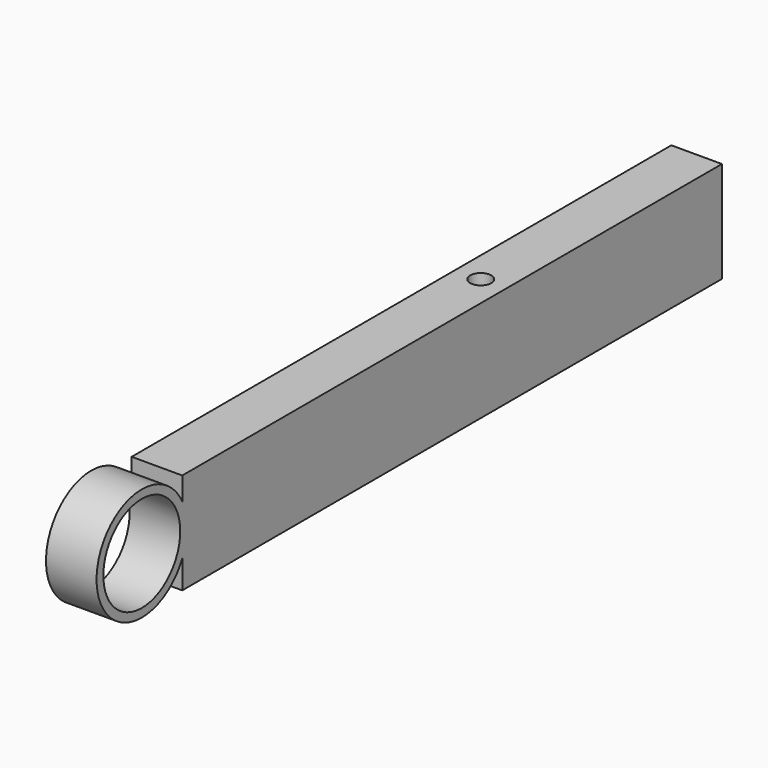
from build123d import *

# Parameters (mm, degrees)
F0_W     = 19.05
F0_H     = 38.1
F1_DEPTH = 127
F2_R     = 18.0975
F3_DEPTH = 19.05
F5_R     = 3.96875
F6_DEPTH = 39.371


with BuildPart() as f1:
    # F0 (on Front) → F1 (new body, symmetric)
    with BuildSketch(Plane.XZ):
        with Locations((9.525, 19.05)):
            Rectangle(F0_W, F0_H)
    extrude(amount=F1_DEPTH, both=True)


with BuildPart() as f3:
    # F2 (on face) → F3 (new body)
    with BuildSketch(Plane.YZ.offset(19.05)):
        with BuildLine():
            Line((-127, 10.535887), (-127, 29.469113))
            ThreePointArc((-127, 29.469113), (-167.3225, 20.0025), (-127, 10.535887))
        make_face()
        with Locations((-146.05, 20.0025)):
            Circle(F2_R, mode=Mode.SUBTRACT)
    extrude(amount=-F3_DEPTH)

    # F4: union F1
    add(f1.part)

    # F5 (on face) → F6 (cut, through all)
    with BuildSketch(Plane.XY.offset(38.1)):
        with Locations((9.525, 25.4)):
            Circle(F5_R)
    extrude(amount=-F6_DEPTH, mode=Mode.SUBTRACT)


solid = f3.part
